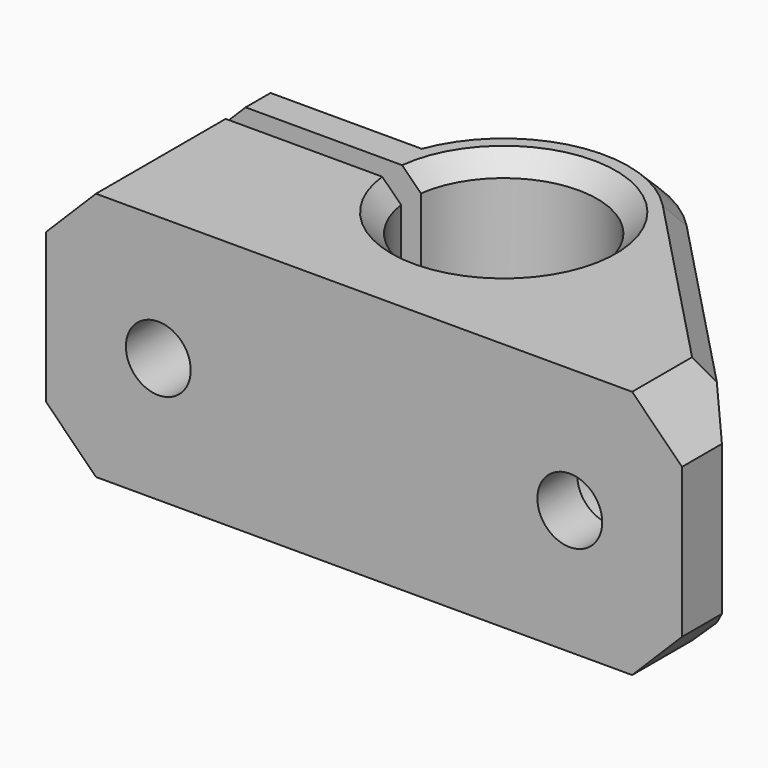
from build123d import *

# Parameters (mm, degrees)
PAD_DEPTH       = 20
SKETCH001_R     = 2.6
POCKET_DEPTH    = 25.501
SKETCH002_R     = 5
POCKET001_DEPTH = 21.501
CHAMFER_SIZE    = 4
CHAMFER001_SIZE = 1.5


with BuildPart() as part:
    # Sketch → Pad (new body)
    with BuildSketch(Plane.XY):
        with BuildLine():
            ThreePointArc((-7.433034, 13), (7.5, 14), (-7.433034, 15))
            Line((-7.433034, 15), (-25.5, 15))
            Line((-25.5, 15), (-25.5, 19))
            Line((-25.5, 19), (-10.356158, 19))
            ThreePointArc((8.305538, 21.954121), (-1.798046, 25.358566), (-10.356158, 19))
            Line((25.5, 4), (8.305538, 21.954121))
            Line((25.5, 0), (25.5, 4))
            Line((-25.5, 0), (25.5, 0))
            Line((-25.5, 13), (-25.5, 0))
            Line((-7.433034, 13), (-25.5, 13))
        make_face()
    extrude(amount=PAD_DEPTH)

    # Sketch001 → Pocket (cut, through all)
    with BuildSketch(Plane.XZ):
        with Locations((-16.5, 10)):
            Circle(SKETCH001_R)
        with Locations((16.5, 10)):
            Circle(SKETCH001_R)
    extrude(amount=-POCKET_DEPTH, mode=Mode.SUBTRACT)

    # Sketch002 (on DatumPlane) → Pocket001 (cut, through all)
    with BuildSketch(Plane.XZ.offset(-4)):
        with Locations((16.5, 10)):
            Circle(SKETCH002_R)
    extrude(amount=-POCKET001_DEPTH, mode=Mode.SUBTRACT)

    # Chamfer
    chamfer_edges = [part.edges().sort_by_distance(p)[0] for p in [
        (-25.5, 17, 20),
        (-25.5, 6.5, 20),
        (-25.5, 17, 0),
        (-25.5, 6.5, 0),
        (25.5, 2, 20),
        (25.5, 2, 0),
    ]]
    chamfer(chamfer_edges, length=CHAMFER_SIZE)

    # Chamfer001
    chamfer001_edges = [part.edges().sort_by_distance(p)[0] for p in [
        (7.5, 14, 20),
        (7.5, 14, 0),
        (-1.798046, 25.358566, 20),
        (-15.928079, 19, 20),
        (-23.5, 19, 18),
        (-25.5, 19, 10),
        (-23.5, 19, 2),
        (-15.928079, 19, 0),
        (-1.798046, 25.358566, 0),
        (14.902769, 15.065421, 20),
        (14.902769, 15.065421, 0),
    ]]
    chamfer(chamfer001_edges, length=CHAMFER001_SIZE)


solid = part.part
